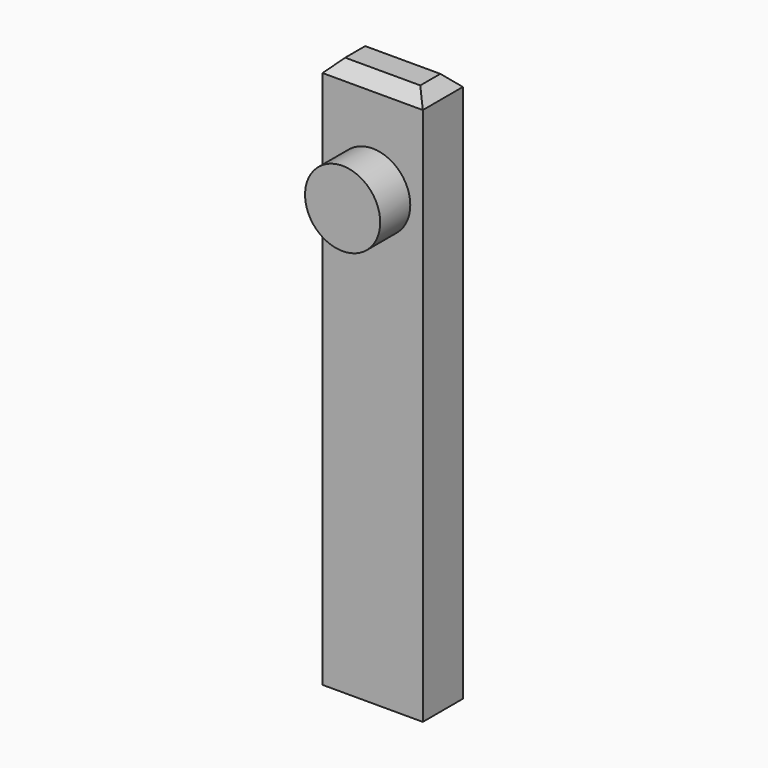
from build123d import *

# Parameters (mm, degrees)
F0_W          = 40
F0_H          = 20
F1_DEPTH      = 120
F1_DEPTH_BACK = 100
F2_R          = 15
F3_DEPTH      = 15
F4_SIZE       = 5


with BuildPart() as f1:
    # F0 (on Top) → F1 (new body, two sides)
    with BuildSketch(Plane.XY) as f1_sk:
        with Locations((0, 10)):
            Rectangle(F0_W, F0_H)
    extrude(amount=F1_DEPTH)
    extrude(f1_sk.sketch, amount=-F1_DEPTH_BACK)

    # F2 (on face) → F3 (join)
    with BuildSketch(Plane.XZ):
        with Locations((0, 80)):
            Circle(F2_R)
    extrude(amount=F3_DEPTH)

    # F4
    f4_edges = [f1.edges().sort_by_distance(p)[0] for p in [
        (0, 0, 120),
        (20, 10, 120),
        (0, 20, 120),
        (-20, 10, 120),
    ]]
    chamfer(f4_edges, length=F4_SIZE)


solid = f1.part
